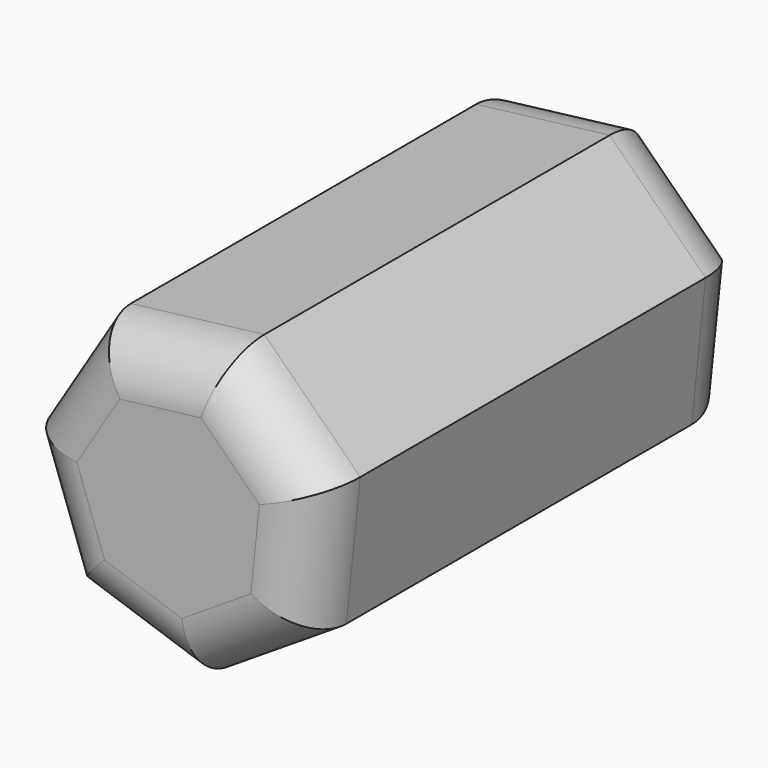
from build123d import *

# Parameters (mm, degrees)
F1_DEPTH = 228.6
F2_R     = 22.86
F3_R     = 25.4


with BuildPart() as f1:
    # F0 (on Front) → F1 (new body)
    with BuildSketch(Plane.XZ):
        Polygon((-34.895125, 54.553078), (-64.408069, 6.731181), (-45.420423, -46.159433), (7.769728, -64.291052), (55.109115, -34.010198), (60.950214, 21.881029), (20.89456, 61.295395), align=None)
    extrude(amount=F1_DEPTH)

    # F2
    f2_edges = [f1.edges().sort_by_distance(p)[0] for p in [
        (-7.000283, -228.6, 57.924237),
        (-49.651597, -228.6, 30.642129),
        (-54.914246, -228.6, -19.714126),
        (-18.825348, -228.6, -55.225243),
        (31.439421, -228.6, -49.150625),
        (58.029665, -228.6, -6.064584),
        (40.922387, -228.6, 41.588212),
    ]]
    fillet(f2_edges, radius=F2_R)

    # F3
    f3_edges = [f1.edges().sort_by_distance(p)[0] for p in [
        (-7.000283, 0, 57.924237),
        (-49.651597, 0, 30.642129),
        (-54.914246, 0, -19.714126),
        (-18.825348, 0, -55.225243),
        (31.439421, 0, -49.150625),
        (58.029665, 0, -6.064584),
        (40.922387, 0, 41.588212),
    ]]
    fillet(f3_edges, radius=F3_R)


solid = f1.part
